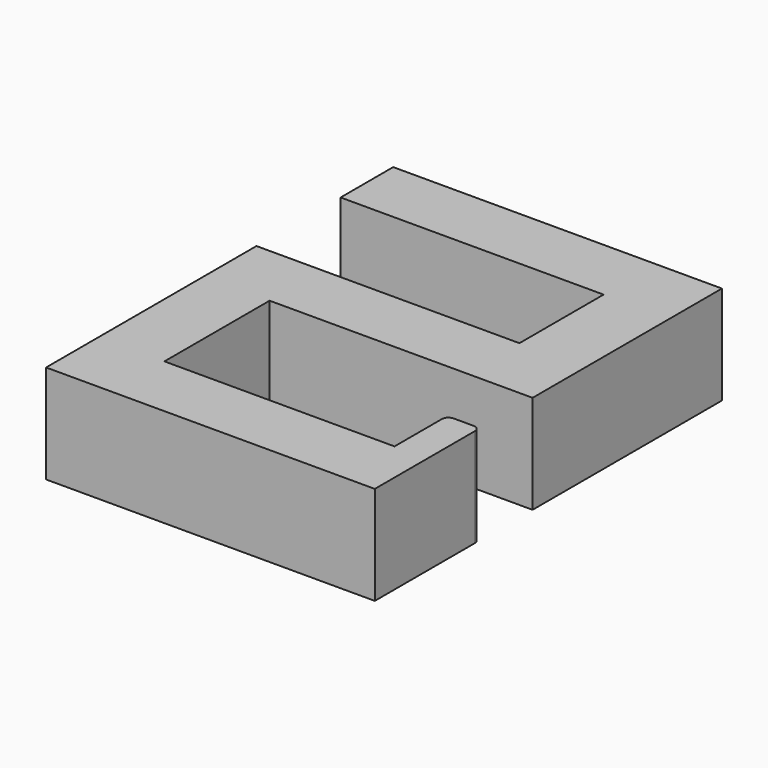
from build123d import *

# Parameters (mm, degrees)
PAD_DEPTH = 15
FILLET_R  = 1


with BuildPart() as part:
    # Sketch → Pad (new body)
    with BuildSketch(Plane.XY):
        Polygon((0, -10), (40, -10), (40, -26), (0, -26), (0, -66), (50, -66), (50, -46), (45, -46), (45, -56), (10, -56), (10, -36), (50, -36), (50, 0), (0, 0), align=None)
    extrude(amount=PAD_DEPTH)

    # Fillet
    fillet_edges = [part.edges().sort_by_distance(p)[0] for p in [
        (50, -46, 7.5),
        (45, -46, 7.5),
    ]]
    fillet(fillet_edges, radius=FILLET_R)


solid = part.part
